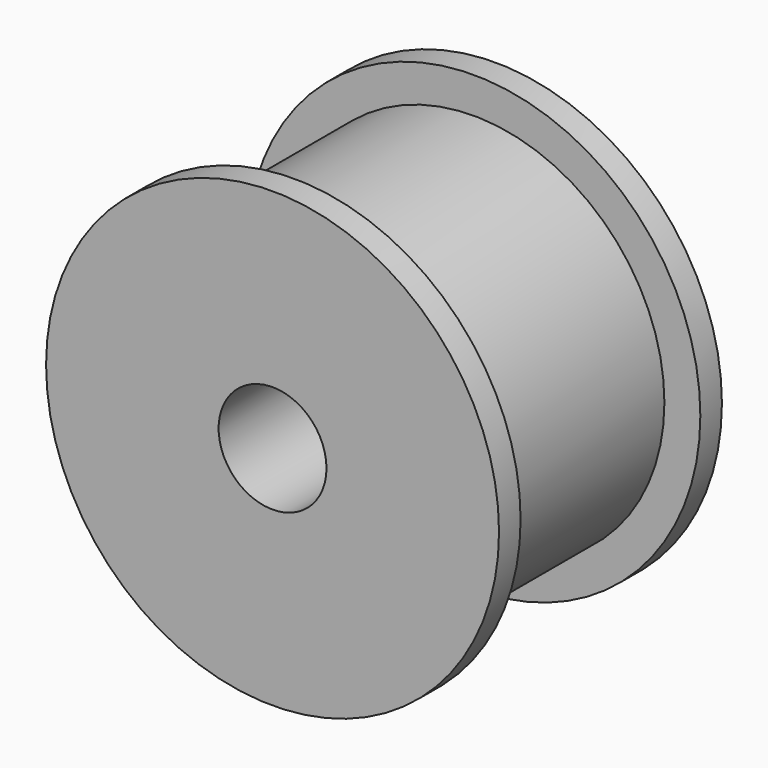
from build123d import *


with BuildPart() as part:
    # Sketch → Revolve (revolve)
    with BuildSketch(Plane.XY):
        Polygon((3, -10.6), (3, 10.6), (6, 10.6), (6, 4.9), (12.6, 4.9), (12.6, 3.4), (10.6, 3.4), (10.6, -9.1), (12.6, -9.1), (12.6, -10.6), align=None)
    revolve(axis=Axis((0, 0, 0), (0, 1, 0)))


solid = part.part
